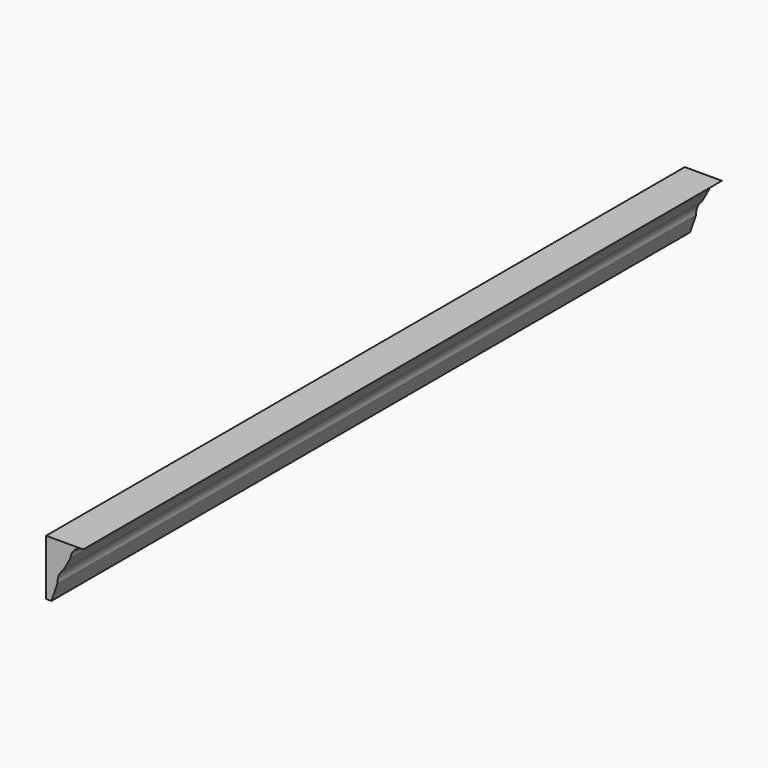
from build123d import *

# Parameters (mm, degrees)
F1_DEPTH = 1092.2


with BuildPart() as f1:
    # F0 (on Front) → F1 (new body, symmetric)
    with BuildSketch(Plane.XZ):
        with BuildLine():
            Line((0, 152.4), (0, 0))
            Line((0, 0), (14.721692, 0))
            Line((14.721692, 0), (30.908439, 47.127715))
            ThreePointArc((30.908439, 47.127715), (34.639248, 67.810302), (46.981968, 84.820464))
            Line((46.981968, 84.820464), (67.011952, 120.723277))
            ThreePointArc((67.011952, 120.723277), (78.149265, 143.284197), (101.6, 152.4))
            Line((101.6, 152.4), (0, 152.4))
        make_face()
    extrude(amount=F1_DEPTH, both=True)


solid = f1.part
